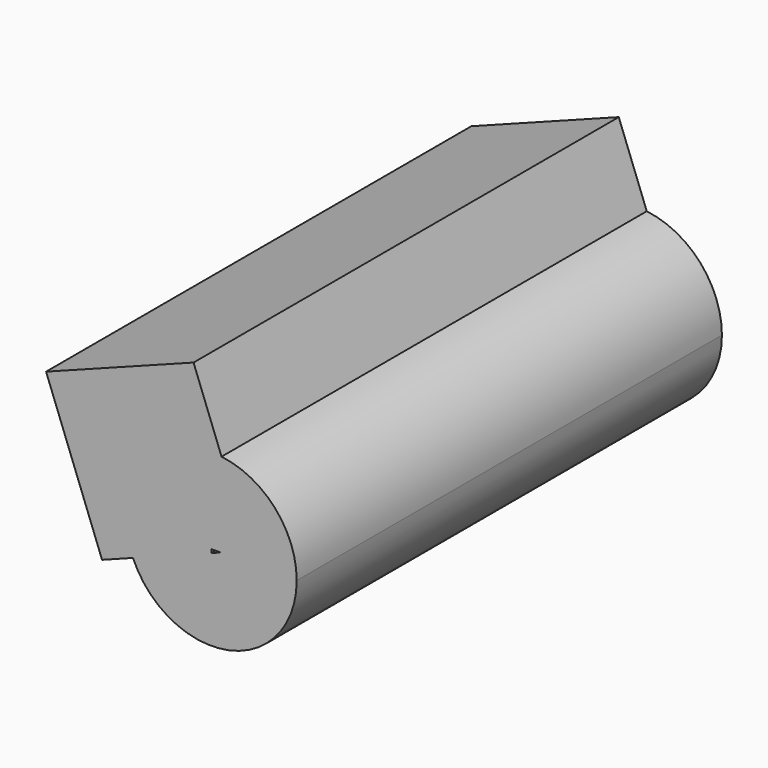
from build123d import *

# Parameters (mm, degrees)
F1_DEPTH = 127


with BuildPart() as f1:
    # F0 (on Front) → F1 (new body)
    with BuildSketch(Plane.XZ):
        with BuildLine():
            Line((0, 13.756104745), (0, 0))
            ThreePointArc((0, 0), (3.9636439933, 6.3766283352), (5.3475480899, 13.756104745))
            ThreePointArc((5.3475480899, 13.756104745), (0.2103849632, 27.2789164145), (-12.6096097791, 33.980007016))
            Line((-12.6096097791, 33.980007016), (-5.9254722465, 16.3710878105))
            Line((-5.9254722465, 16.3710878105), (-12.8144725551, 13.756104745))
            Line((-12.8144725551, 13.756104745), (0, 13.756104745))
        make_face()
        with BuildLine():
            ThreePointArc((-33.7689797724, 5.8020215594), (-18.4682387713, -6.3167391918), (0, 0))
            Line((0, 0), (-15.0194205344, 0))
            Line((-15.0194205344, 0), (-15.0194205344, 12.9191325621))
            Line((-15.0194205344, 12.9191325621), (-33.7689797724, 5.8020215594))
        make_face()
        Polygon((-15.0194205344, 0), (0, 0), (0, 13.756104745), (-12.8144725551, 13.756104745), (-15.0194205344, 12.9191325621), align=None)
        with BuildLine():
            Line((-41.1594888919, 2.9966716788), (-33.7689797724, 5.8020215594))
            ThreePointArc((-33.7689797724, 5.8020215594), (-31.3058124374, 25.9858573886), (-12.6096097791, 33.980007016))
            Line((-12.6096097791, 33.980007016), (-19.2998883782, 51.6051044558))
            Line((-19.2998883782, 51.6051044558), (-54.5339050235, 38.2306883241))
            Line((-54.5339050235, 38.2306883241), (-41.1594888919, 2.9966716788))
        make_face()
        with BuildLine():
            ThreePointArc((-12.6096097791, 33.980007016), (-31.3058124374, 25.9858573886), (-33.7689797724, 5.8020215594))
            Line((-33.7689797724, 5.8020215594), (-15.0194205344, 12.9191325621))
            Line((-15.0194205344, 12.9191325621), (-15.0194205344, 13.756104745))
            Line((-15.0194205344, 13.756104745), (-12.8144725551, 13.756104745))
            Line((-12.8144725551, 13.756104745), (-5.9254722465, 16.3710878105))
            Line((-5.9254722465, 16.3710878105), (-12.6096097791, 33.980007016))
        make_face()
    extrude(amount=F1_DEPTH)


solid = f1.part
